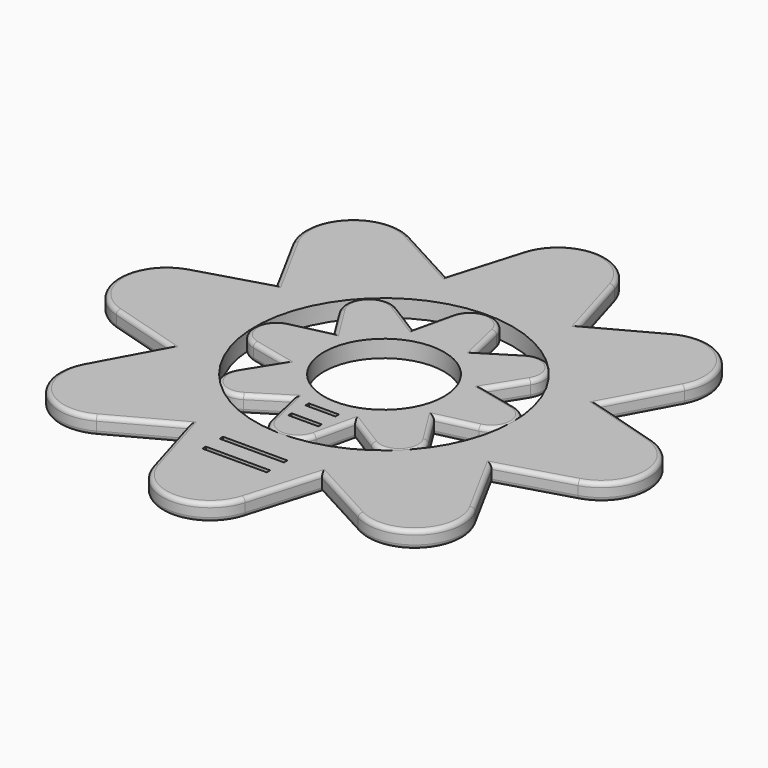
from build123d import *

# Parameters (mm, degrees)
SKETCH_R     = 14
SKETCH_W     = 7
SKETCH_H     = 1
PAD_DEPTH    = 4
FILLET_R     = 1
SKETCH001_R  = 30
SKETCH001_W  = 15
SKETCH001_H  = 1
PAD001_DEPTH = 4
FILLET001_R  = 1


with BuildPart() as obj1:
    # Sketch → Pad (new body)
    with BuildSketch(Plane.XY):
        with BuildLine():
            ThreePointArc((22.270292, 14.880533), (21.514855, 21.514855), (14.880533, 22.270292))
            Line((7.248737, 17.5), (14.880533, 22.270292))
            Line((5.225348, 26.269601), (7.248737, 17.5))
            ThreePointArc((5.225348, 26.269601), (0, 30.4266), (-5.225348, 26.269601))
            Line((-5.225348, 26.269601), (-7.248737, 17.5))
            Line((-14.880533, 22.270292), (-7.248737, 17.5))
            ThreePointArc((-14.880533, 22.270292), (-21.514855, 21.514855), (-22.270292, 14.880533))
            Line((-17.5, 7.248737), (-22.270292, 14.880533))
            Line((-26.269601, 5.225348), (-17.5, 7.248737))
            ThreePointArc((-26.269601, 5.225348), (-30.4266, 0), (-26.269601, -5.225348))
            Line((-17.5, -7.248737), (-26.269601, -5.225348))
            Line((-22.270292, -14.880533), (-17.5, -7.248737))
            ThreePointArc((-22.270292, -14.880533), (-21.514855, -21.514855), (-14.880533, -22.270292))
            Line((-7.248737, -17.5), (-14.880533, -22.270292))
            Line((-5.225348, -26.269601), (-7.248737, -17.5))
            ThreePointArc((-5.225348, -26.269601), (0, -30.4266), (5.225348, -26.269601))
            Line((7.248737, -17.5), (5.225348, -26.269601))
            Line((14.880533, -22.270292), (7.248737, -17.5))
            ThreePointArc((14.880533, -22.270292), (21.514855, -21.514855), (22.270292, -14.880533))
            Line((17.5, -7.248737), (22.270292, -14.880533))
            Line((26.269601, -5.225348), (17.5, -7.248737))
            ThreePointArc((26.269601, -5.225348), (30.4266, 0), (26.269601, 5.225348))
            Line((17.5, 7.248737), (26.269601, 5.225348))
            Line((22.270292, 14.880533), (17.5, 7.248737))
        make_face()
        Circle(SKETCH_R, mode=Mode.SUBTRACT)
        with Locations((0, -18)):
            Rectangle(SKETCH_W, SKETCH_H, mode=Mode.SUBTRACT)
        with Locations((0, -23)):
            Rectangle(SKETCH_W, SKETCH_H, mode=Mode.SUBTRACT)
    extrude(amount=PAD_DEPTH)

    # Fillet
    fillet_edges = [obj1.edges().sort_by_distance(p)[0] for p in [
        (0, -30.4266, 4),
        (-6.237043, -21.8848, 4),
        (-11.064635, -19.885146, 4),
        (-21.514855, -21.514855, 4),
        (-19.885146, -11.064635, 4),
        (-21.8848, -6.237043, 4),
        (-30.4266, 0, 4),
        (-21.8848, 6.237043, 4),
        (-19.885146, 11.064635, 4),
        (-21.514855, 21.514855, 4),
        (-11.064635, 19.885146, 4),
        (-6.237043, 21.8848, 4),
        (0, 30.4266, 4),
        (6.237043, 21.8848, 4),
        (11.064635, 19.885146, 4),
        (21.514855, 21.514855, 4),
        (19.885146, 11.064635, 4),
        (21.8848, 6.237043, 4),
        (30.4266, 0, 4),
        (21.8848, -6.237043, 4),
        (19.885146, -11.064635, 4),
        (21.514855, -21.514855, 4),
        (11.064635, -19.885146, 4),
        (6.237043, -21.8848, 4),
        (-21.514855, 21.514855, 0),
        (-19.885146, 11.064635, 0),
        (-21.8848, 6.237043, 0),
        (-30.4266, 0, 0),
        (-21.8848, -6.237043, 0),
        (-19.885146, -11.064635, 0),
        (-21.514855, -21.514855, 0),
        (-11.064635, -19.885146, 0),
        (-6.237043, -21.8848, 0),
        (0, -30.4266, 0),
        (6.237043, -21.8848, 0),
        (11.064635, -19.885146, 0),
        (21.514855, -21.514855, 0),
        (19.885146, -11.064635, 0),
        (21.8848, -6.237043, 0),
        (30.4266, 0, 0),
        (21.8848, 6.237043, 0),
        (19.885146, 11.064635, 0),
        (21.514855, 21.514855, 0),
        (11.064635, 19.885146, 0),
        (6.237043, 21.8848, 0),
        (0, 30.4266, 0),
        (-6.237043, 21.8848, 0),
        (-11.064635, 19.885146, 0),
    ]]
    fillet(fillet_edges, radius=FILLET_R)


with BuildPart() as obj2:
    # Sketch001 → Pad001 (new body)
    with BuildSketch(Plane.XY):
        with BuildLine():
            ThreePointArc((45.608509, 30.474631), (43.690813, 43.690813), (30.474631, 45.608509))
            Line((15.533009, 37.5), (30.474631, 45.608509))
            Line((10.701267, 53.798904), (15.533009, 37.5))
            ThreePointArc((10.701267, 53.798904), (0, 61.78814), (-10.701267, 53.798904))
            Line((-10.701267, 53.798904), (-15.533009, 37.5))
            Line((-30.474631, 45.608509), (-15.533009, 37.5))
            ThreePointArc((-30.474631, 45.608509), (-43.690813, 43.690813), (-45.608509, 30.474631))
            Line((-37.5, 15.533009), (-45.608509, 30.474631))
            Line((-53.798904, 10.701267), (-37.5, 15.533009))
            ThreePointArc((-53.798904, 10.701267), (-61.78814, 0), (-53.798904, -10.701267))
            Line((-37.5, -15.533009), (-53.798904, -10.701267))
            Line((-45.608509, -30.474631), (-37.5, -15.533009))
            ThreePointArc((-45.608509, -30.474631), (-43.690813, -43.690813), (-30.474631, -45.608509))
            Line((-15.533009, -37.5), (-30.474631, -45.608509))
            Line((-10.701267, -53.798904), (-15.533009, -37.5))
            ThreePointArc((-10.701267, -53.798904), (0, -61.78814), (10.701267, -53.798904))
            Line((15.533009, -37.5), (10.701267, -53.798904))
            Line((30.474631, -45.608509), (15.533009, -37.5))
            ThreePointArc((30.474631, -45.608509), (43.690813, -43.690813), (45.608509, -30.474631))
            Line((37.5, -15.533009), (45.608509, -30.474631))
            Line((53.798904, -10.701267), (37.5, -15.533009))
            ThreePointArc((53.798904, -10.701267), (61.78814, 0), (53.798904, 10.701267))
            Line((37.5, 15.533009), (53.798904, 10.701267))
            Line((45.608509, 30.474631), (37.5, 15.533009))
        make_face()
        Circle(SKETCH001_R, mode=Mode.SUBTRACT)
        with Locations((0, -38)):
            Rectangle(SKETCH001_W, SKETCH001_H, mode=Mode.SUBTRACT)
        with Locations((0, -43)):
            Rectangle(SKETCH001_W, SKETCH001_H, mode=Mode.SUBTRACT)
    extrude(amount=PAD001_DEPTH)

    # Fillet001
    fillet001_edges = [obj2.edges().sort_by_distance(p)[0] for p in [
        (0, -61.78814, 4),
        (-13.117138, -45.649452, 4),
        (-23.00382, -41.554254, 4),
        (-43.690813, -43.690813, 4),
        (-41.554254, -23.00382, 4),
        (-45.649452, -13.117138, 4),
        (-61.78814, 0, 4),
        (-45.649452, 13.117138, 4),
        (-41.554254, 23.00382, 4),
        (-43.690813, 43.690813, 4),
        (-23.00382, 41.554254, 4),
        (-13.117138, 45.649452, 4),
        (0, 61.78814, 4),
        (13.117138, 45.649452, 4),
        (23.00382, 41.554254, 4),
        (43.690813, 43.690813, 4),
        (41.554254, 23.00382, 4),
        (45.649452, 13.117138, 4),
        (61.78814, 0, 4),
        (45.649452, -13.117138, 4),
        (41.554254, -23.00382, 4),
        (43.690813, -43.690813, 4),
        (23.00382, -41.554254, 4),
        (13.117138, -45.649452, 4),
        (-43.690813, 43.690813, 0),
        (-41.554254, 23.00382, 0),
        (-45.649452, 13.117138, 0),
        (-61.78814, 0, 0),
        (-45.649452, -13.117138, 0),
        (-41.554254, -23.00382, 0),
        (-43.690813, -43.690813, 0),
        (-23.00382, -41.554254, 0),
        (-13.117138, -45.649452, 0),
        (0, -61.78814, 0),
        (13.117138, -45.649452, 0),
        (23.00382, -41.554254, 0),
        (43.690813, -43.690813, 0),
        (41.554254, -23.00382, 0),
        (45.649452, -13.117138, 0),
        (61.78814, 0, 0),
        (45.649452, 13.117138, 0),
        (41.554254, 23.00382, 0),
        (43.690813, 43.690813, 0),
        (23.00382, 41.554254, 0),
        (13.117138, 45.649452, 0),
        (0, 61.78814, 0),
        (-13.117138, 45.649452, 0),
        (-23.00382, 41.554254, 0),
    ]]
    fillet(fillet001_edges, radius=FILLET001_R)


solid = Compound([obj1.part, obj2.part])
